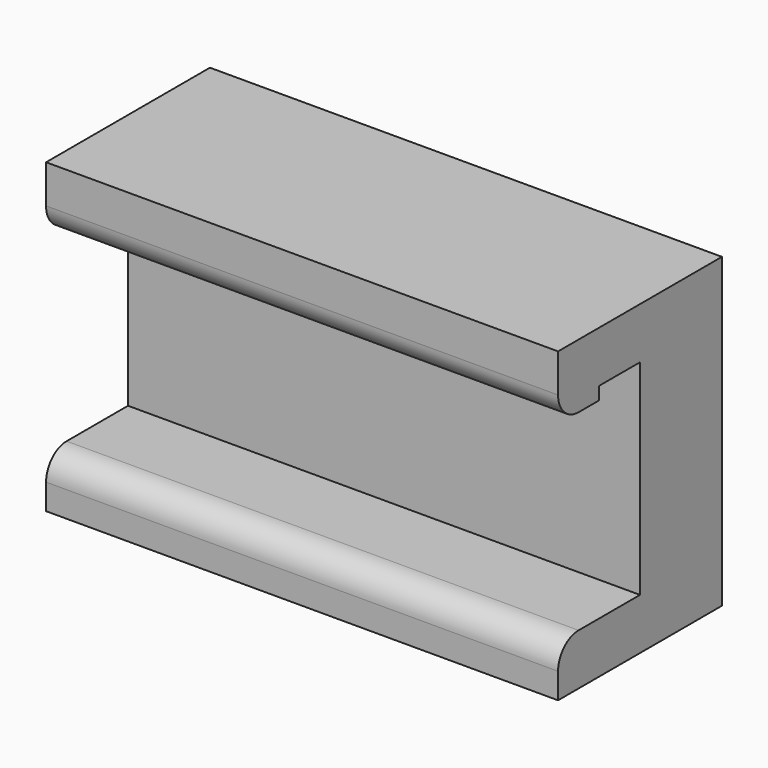
from build123d import *

# Parameters (mm, degrees)
F0_W     = 20
F0_H     = 8
F1_DEPTH = 4
F0_H_2   = 2
F2_DEPTH = 8
F3_W     = 20
F3_H     = 2
F4_DEPTH = 0.5
F5_R     = 1


with BuildPart() as f1:
    # F0 (on Front) → F1 (new body)
    with BuildSketch(Plane.XZ):
        with Locations((5, 0)):
            Rectangle(F0_W, F0_H)
    extrude(amount=F1_DEPTH)

    # F0 (on Front) → F2 (join)
    with BuildSketch(Plane.XZ):
        with Locations((5, 5)):
            Rectangle(F0_W, F0_H_2)
        with Locations((5, -5)):
            Rectangle(F0_W, F0_H_2)
    extrude(amount=F2_DEPTH)

    # F3 (on face) → F4 (join)
    with BuildSketch(Plane(origin=(0, 0, 4), x_dir=(1, 0, 0), z_dir=(0, 0, -1))):
        with Locations((5, 7)):
            Rectangle(F3_W, F3_H)
    extrude(amount=F4_DEPTH)

    # F5
    f5_edges = [f1.edges().sort_by_distance(p)[0] for p in [
        (5, -8, 3.5),
        (5, -8, -4),
    ]]
    fillet(f5_edges, radius=F5_R)


solid = f1.part
